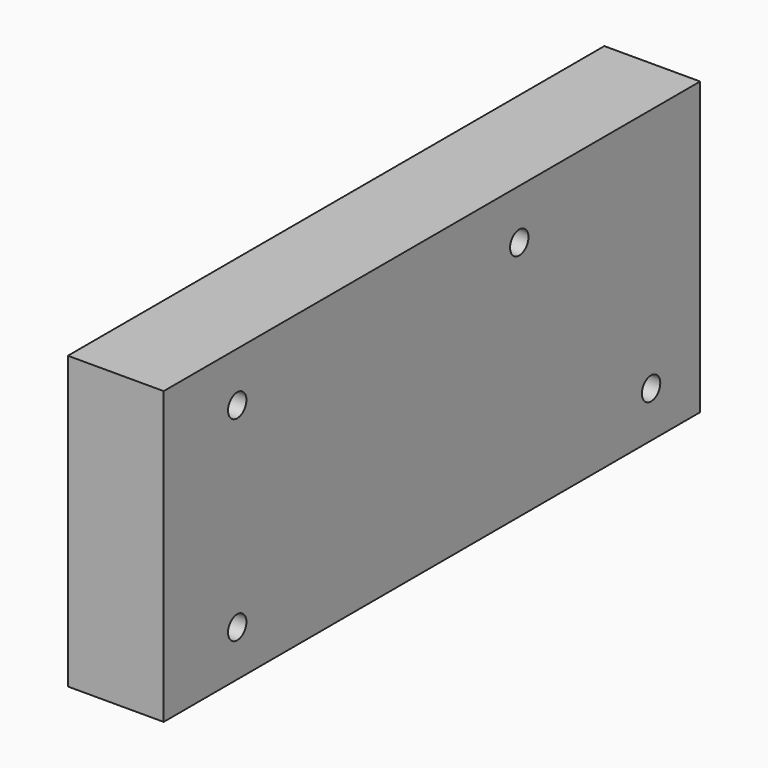
from build123d import *

# Parameters (mm, degrees)
F0_W     = 175
F0_H     = 76
F0_R     = 3
F1_DEPTH = 25


with BuildPart() as f1:
    # F0 (on Right) → F1 (new body)
    with BuildSketch(Plane.YZ):
        with Locations((-4.577316, 3.653536)):
            Rectangle(F0_W, F0_H)
        with Locations((-68.077316, -22.346464)):
            Circle(F0_R, mode=Mode.SUBTRACT)
        with Locations((66.922684, -22.346464)):
            Circle(F0_R, mode=Mode.SUBTRACT)
        with Locations((-68.077316, 28.653536)):
            Circle(F0_R, mode=Mode.SUBTRACT)
        with Locations((23.922684, 28.653536)):
            Circle(F0_R, mode=Mode.SUBTRACT)
    extrude(amount=F1_DEPTH)


solid = f1.part
